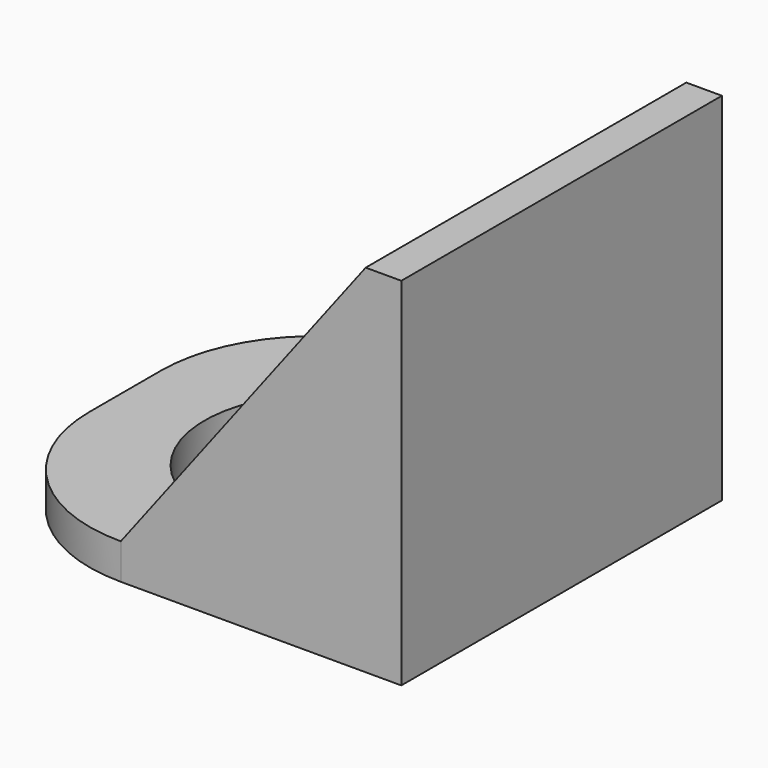
from build123d import *

# Parameters (mm, degrees)
SKETCH_W     = 45
SKETCH_H     = 45
SKETCH_R     = 13.6
PAD_DEPTH    = 4
SKETCH001_W  = 45
SKETCH001_H  = 40
PAD001_DEPTH = 4
FILLET_R     = 17.5
PAD002_DEPTH = 2


with BuildPart() as part:
    # Sketch → Pad (new body)
    with BuildSketch(Plane.XY):
        Rectangle(SKETCH_W, SKETCH_H)
        Circle(SKETCH_R, mode=Mode.SUBTRACT)
    extrude(amount=PAD_DEPTH)

    # Sketch001 (on Face3 of Pad) → Pad001 (join)
    with BuildSketch(Plane.YZ.offset(22.5)):
        with Locations((0, 20)):
            Rectangle(SKETCH001_W, SKETCH001_H)
    extrude(amount=PAD001_DEPTH)

    # Fillet
    fillet_edges = [part.edges().sort_by_distance(p)[0] for p in [
        (-22.5, 22.5, 2),
        (-22.5, -22.5, 2),
    ]]
    fillet(fillet_edges, radius=FILLET_R)

    # Sketch002 (on Face6 of Fillet) → Pad002 (join)
    with BuildSketch(Plane.XZ.offset(22.5)):
        Polygon((-5, 4), (22.5, 4), (22.5, 40), align=None)
    pad002 = extrude(amount=-PAD002_DEPTH)

    # Mirrored: Pad002 across XZ
    add(pad002.mirror(Plane.XZ))


solid = part.part
